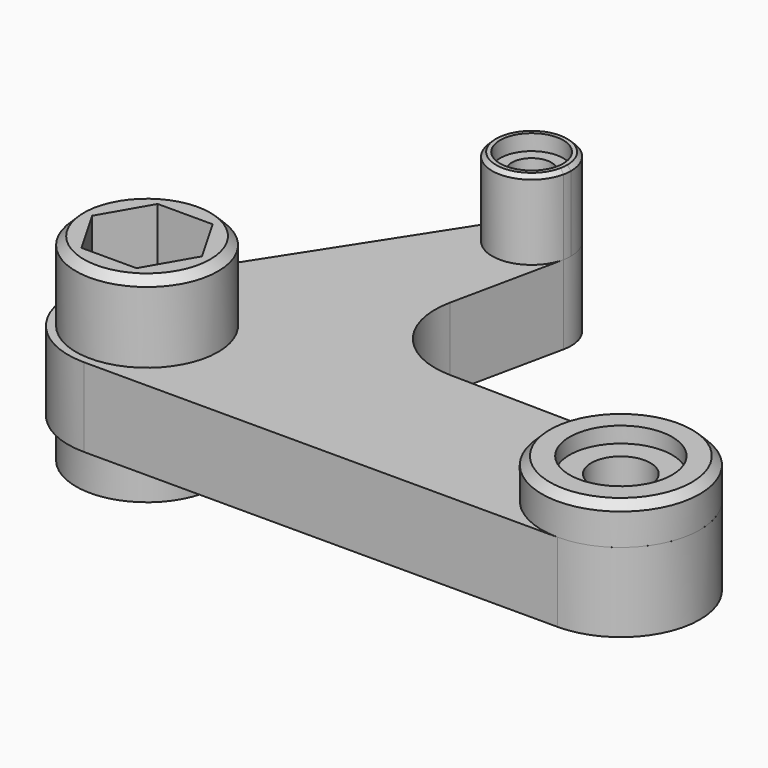
from build123d import *

# Parameters (mm, degrees)
F1_DEPTH       = 12.7
F2_DEPTH       = 12.7
F4_DEPTH       = 12.7
F5_R           = 5.08
F6_DEPTH       = 2.54
F7_SIZE        = 0.635
F8_R           = 3.175
F9_DEPTH       = 22.861
F10_R          = 12.7
F11_R          = 12.7
F12_DEPTH      = 6.35
F13_R          = 8.255
F14_DEPTH      = 2.54
F15_R          = 4.7625
F16_DEPTH      = 16.511
F17_R          = 11.43
F18_DEPTH      = 12.7
F18_DEPTH_BACK = 19.05
F20_DEPTH      = 31.751
F21_SIZE       = 1.27


with BuildPart() as f1:
    # F0 (on Top) → F1 (new body)
    with BuildSketch(Plane.XY):
        with BuildLine():
            Line((-21.455052, 51.488744), (-50.20143, 6.879278))
            ThreePointArc((-50.20143, 6.879278), (-50.676231, -6.079604), (-39.525966, -12.7))
            Line((-39.525966, -12.7), (36.674034, -12.7))
            ThreePointArc((36.674034, -12.7), (49.373624, -0.102134), (36.878296, 12.698357))
            Line((36.878296, 12.698357), (-16.962682, 13.564426))
            Line((-16.962682, 13.564426), (-9.90636, 46.727561))
            ThreePointArc((-9.90636, 46.727561), (-13.697021, 53.919765), (-21.455052, 51.488744))
        make_face()
    extrude(amount=F1_DEPTH)

    # F0 (on Top) → F2 (join)
    with BuildSketch(Plane.XY):
        with BuildLine():
            Line((-21.455052, 51.488744), (-50.20143, 6.879278))
            ThreePointArc((-50.20143, 6.879278), (-50.676231, -6.079604), (-39.525966, -12.7))
            Line((-39.525966, -12.7), (36.674034, -12.7))
            ThreePointArc((36.674034, -12.7), (49.373624, -0.102134), (36.878296, 12.698357))
            Line((36.878296, 12.698357), (-16.962682, 13.564426))
            Line((-16.962682, 13.564426), (-9.90636, 46.727561))
            ThreePointArc((-9.90636, 46.727561), (-13.697021, 53.919765), (-21.455052, 51.488744))
        make_face()
    extrude(amount=F2_DEPTH)

    # F3 (on face) → F4 (join)
    with BuildSketch(Plane.XY.offset(12.7)):
        with BuildLine():
            ThreePointArc((-9.90636, 46.727561), (-9.802176, 47.384686), (-9.76732, 48.049105))
            ThreePointArc((-9.76732, 48.049105), (-14.324571, 54.140783), (-21.455052, 51.488744))
            ThreePointArc((-21.455052, 51.488744), (-18.537619, 42.178444), (-9.90636, 46.727561))
        make_face()
    extrude(amount=F4_DEPTH)

    # F5 (on face) → F6 (cut)
    with BuildSketch(Plane.XY.offset(25.4)):
        with Locations((-16.11732, 48.049105)):
            Circle(F5_R)
    extrude(amount=-F6_DEPTH, mode=Mode.SUBTRACT)

    # F7
    f7_edges = [f1.edges().sort_by_distance(p)[0] for p in [
        (-22.32828, 49.370648, 25.4),
    ]]
    chamfer(f7_edges, length=F7_SIZE)

    # F8 (on face) → F9 (cut, through all)
    with BuildSketch(Plane.XY.offset(22.86)):
        with Locations((-16.11732, 48.049105)):
            Circle(F8_R)
    extrude(amount=-F9_DEPTH, mode=Mode.SUBTRACT)

    # F10
    f10_edges = [f1.edges().sort_by_distance(p)[0] for p in [
        (-16.962682, 13.564426, 6.35),
    ]]
    fillet(f10_edges, radius=F10_R)

    # F11 (on face) → F12 (join)
    with BuildSketch(Plane.XY.offset(12.7)):
        with Locations((36.674034, 0)):
            Circle(F11_R)
    extrude(amount=F12_DEPTH)

    # F13 (on face) → F14 (cut)
    with BuildSketch(Plane.XY.offset(19.05)):
        with Locations((36.674034, 0)):
            Circle(F13_R)
    extrude(amount=-F14_DEPTH, mode=Mode.SUBTRACT)

    # F15 (on face) → F16 (cut, through all)
    with BuildSketch(Plane.XY.offset(16.51)):
        with Locations((36.674034, 0)):
            Circle(F15_R)
    extrude(amount=-F16_DEPTH, mode=Mode.SUBTRACT)

    # F17 (on face) → F18 (join, two sides)
    with BuildSketch(Plane.XY.offset(12.7)) as f18_sk:
        with Locations((-39.525966, 0)):
            Circle(F17_R)
    extrude(amount=F18_DEPTH)
    extrude(f18_sk.sketch, amount=-F18_DEPTH_BACK)

    # F19 (on face) → F20 (cut, through all)
    with BuildSketch(Plane.XY.offset(25.4)):
        Polygon((-35.107682, 7.652692), (-43.944249, 7.652692), (-48.362533, 0), (-43.944249, -7.652692), (-35.107682, -7.652692), (-30.689398, 0), align=None)
    extrude(amount=-F20_DEPTH, mode=Mode.SUBTRACT)

    # F21
    f21_edges = [f1.edges().sort_by_distance(p)[0] for p in [
        (-50.955966, 0, 25.4),
        (23.974034, 0, 19.05),
    ]]
    chamfer(f21_edges, length=F21_SIZE)


solid = f1.part
